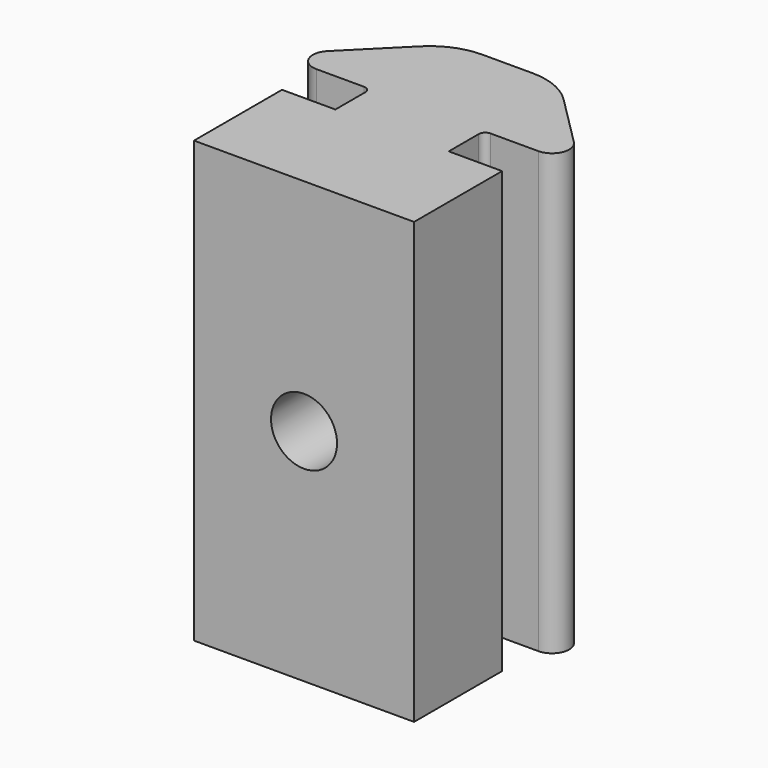
from build123d import *

# Parameters (mm, degrees)
F1_DEPTH = 60
F2_R     = 1.5
F3_DEPTH = 25
F4_R     = 2.5
F5_R     = 2.5
F6_DEPTH = 5
F7_DEPTH = 40


with BuildPart() as f1:
    # F0 (on Top) → F1 (new body)
    with BuildSketch(Plane.XY):
        with BuildLine():
            Line((-0.8000000172, -20.2), (-0.8000000172, -19.2))
            Line((-0.8, -19.2), (-0.8, -18.5000007629))
            ThreePointArc((-0.8, -18.5000007629), (-0.7121320729, -18.2878687671), (-0.5000001089, -18.2000007629))
            Line((-0.5000001089, -18.2000007629), (1.6691214738, -18.1999999754))
            ThreePointArc((1.6691214738, -18.1999999754), (2.3897472802, -17.7184929218), (2.2206644799, -16.868456686))
            Line((2.2206644799, -16.868456686), (-0.1191125495, -14.5286796566))
            ThreePointArc((-0.1191125495, -14.5286796566), (-1.0923825989, -13.8783614014), (-2.2404328993, -13.6500000001))
            Line((-2.2404328993, -13.6500000001), (-4.5095671179, -13.6500000049))
            ThreePointArc((-4.5095671179, -13.6500000049), (-5.6576174116, -13.8783614085), (-6.6308874552, -14.5286796613))
            Line((-6.6308874552, -14.5286796613), (-8.970664486, -16.8684566921))
            ThreePointArc((-8.970664486, -16.8684566921), (-9.1397472858, -17.7184929288), (-8.4191214777, -18.1999999814))
            Line((-8.4191214777, -18.1999999814), (-6.2499998919, -18.2000007629))
            ThreePointArc((-6.2499998919, -18.2000007629), (-6.0378679274, -18.2878687668), (-5.95, -18.5000007629))
            Line((-5.95, -18.5000007629), (-5.95, -19.2))
            Line((-5.95, -19.2), (-5.95, -20.2))
            Line((-5.95, -20.2), (-8.3750000086, -20.2))
            Line((-8.3750000086, -20.2), (-8.3750000086, -25.2))
            Line((-8.3750000086, -25.2), (-3.3750000086, -25.2))
            Line((-3.3750000086, -25.2), (1.6249999914, -25.2))
            Line((1.6249999914, -25.2), (1.6249999914, -20.2))
            Line((1.6249999914, -20.2), (-0.8000000172, -20.2))
        make_face()
    extrude(amount=-F1_DEPTH)

    # F2 (on face) → F3 (cut)
    with BuildSketch(Plane.XZ.offset(25.2)):
        with Locations((-3.3750000086, -50)):
            Circle(F2_R)
        with Locations((-3.3750000086, -30)):
            Circle(F2_R)
        with Locations((-3.3750000086, -10)):
            Circle(F2_R)
    extrude(amount=-F3_DEPTH, mode=Mode.SUBTRACT)

    # F4 (on face) + F5 (on face) → F6 (cut)
    with BuildSketch(Plane(origin=(2.85e-08, -13.6499999955, 0), x_dir=(-1, -2.1e-09, 0), z_dir=(-2.1e-09, 1, 0))):
        with Locations((3.3750000371, -10)):
            Circle(F4_R)
        with Locations((3.3750000371, -30)):
            Circle(F4_R)
    with BuildSketch(Plane(origin=(2.85e-08, -13.6499999955, 0), x_dir=(-1, -2.1e-09, 0), z_dir=(-2.1e-09, 1, 0))):
        with Locations((3.3750000371, -50)):
            Circle(F5_R)
    extrude(amount=-F6_DEPTH, mode=Mode.SUBTRACT)

    # F7 (cut): a face of the model
    f7_faces = [f1.faces().sort_by_distance(p)[0] for p in [
        (-3.3750000055, -19.7568505706, 0),
    ]]
    extrude(f7_faces, amount=-F7_DEPTH, mode=Mode.SUBTRACT)


solid = f1.part
